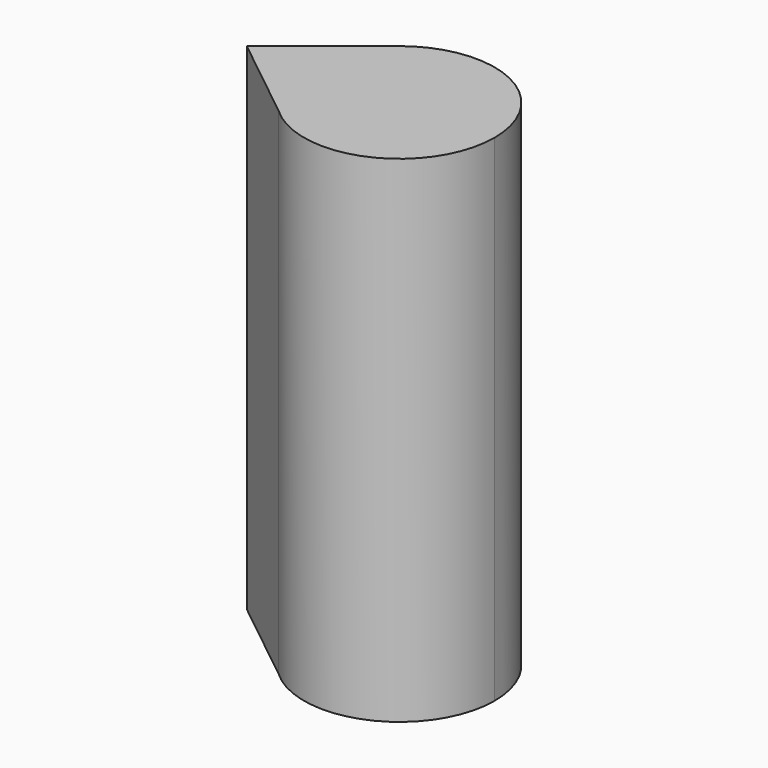
from build123d import *

# Parameters (mm, degrees)
F1_DEPTH = 41.275


with BuildPart() as f1:
    # F0 (on Top) → F1 (new body)
    with BuildSketch(Plane.XY):
        with BuildLine():
            ThreePointArc((-5.438742, -5.781349), (-7.931192, 0.316388), (-4.960937, 6.196209))
            Line((-4.960937, 6.196209), (-12.7, 0))
            Line((-12.7, 0), (-5.438742, -5.781349))
        make_face()
        with BuildLine():
            ThreePointArc((-5.438742, -5.781349), (3.149118, -7.28608), (7.9375, 0))
            ThreePointArc((7.9375, 0), (3.437038, 7.154766), (-4.960937, 6.196209))
            ThreePointArc((-4.960937, 6.196209), (-7.931192, 0.316388), (-5.438742, -5.781349))
        make_face()
    extrude(amount=F1_DEPTH)


solid = f1.part
